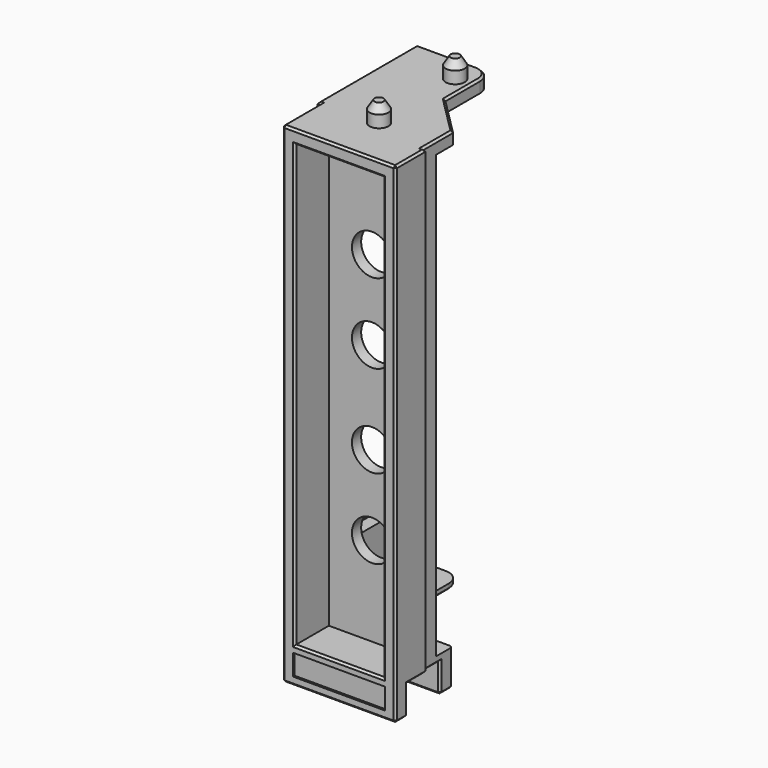
from build123d import *

# Parameters (mm, degrees)
PAD_DEPTH          = 97.8
PAD001_DEPTH       = 2.5
SKETCH002_W        = 22.6
SKETCH002_H        = 4.2
PAD002_DEPTH       = 7.2
PAD003_DEPTH       = 1.2
PAD004_DEPTH       = 2.5
SKETCH005_W        = 10.4
SKETCH005_H        = 8.8
SKETCH005_W_2      = 9.8
POCKET_DEPTH       = 5.8
CHAMFER_SIZE2      = 3
CHAMFER_SIZE       = 0.6
CHAMFER001_SIZE2   = 3
CHAMFER001_SIZE    = 0.6
SKETCH006_R        = 3.9
PAD005_DEPTH       = 4.5
SKETCH007_R        = 1.6
POCKET001_DEPTH    = 5
SKETCH008_R        = 1.9
PAD006_DEPTH       = 4
CHAMFER002_1_SIZE2 = 1
CHAMFER002_1_SIZE  = 1.6
CHAMFER002_2_SIZE2 = 1
CHAMFER002_2_SIZE  = 1.6
SKETCH009_W        = 18.4
SKETCH009_H        = 4.2
POCKET002_DEPTH    = 0.4
SKETCH010_W        = 17.6
SKETCH010_H        = 87.9
POCKET003_DEPTH    = 8.5
CHAMFER003_SIZE    = 0.4
CHAMFER004_SIZE    = 0.4
CHAMFER005_SIZE    = 0.4
SKETCH011_R        = 4
POCKET004_DEPTH    = 5


with BuildPart() as part:
    # Sketch → Pad (new body)
    with BuildSketch(Plane.XY):
        Polygon((-22.6, 0), (-22.6, 9.5), (-23.2, 9.5), (-23.2, 10.8), (-0.6, 10.8), (-0.6, 7.5), (0, 7.5), (0, 0), align=None)
    extrude(amount=PAD_DEPTH)

    # Sketch001 (on Face10 of Pad) → Pad001 (join)
    with BuildSketch(Plane.XY.offset(97.8)):
        with BuildLine():
            Line((-23.2, 10.8), (-23.2, 34.3))
            Line((-23.2, 34.3), (-11.2, 34.3))
            ThreePointArc((-8.2, 31.3), (-9.07868, 33.42132), (-11.2, 34.3))
            Line((-8.2, 31.3), (-8.2, 22.7))
            Line((-8.2, 22.7), (-0.6, 15.1))
            Line((-0.6, 15.1), (-0.6, 10.8))
            Line((-0.6, 10.8), (-23.2, 10.8))
        make_face()
    extrude(amount=-PAD001_DEPTH)

    # Sketch002 (on Face4 of Pad001) → Pad002 (join)
    with BuildSketch(Plane(origin=(0, 0, 0), x_dir=(1, 0, 0), z_dir=(0, 0, -1))):
        with Locations((-11.9, -12.9)):
            Rectangle(SKETCH002_W, SKETCH002_H)
    extrude(amount=-PAD002_DEPTH)

    # Sketch003 (on Face22 of Pad002) → Pad003 (join)
    with BuildSketch(Plane.XY.offset(7.2)):
        with BuildLine():
            Line((-23.2, 15), (-23.2, 34.3))
            Line((-23.2, 34.3), (-17.4, 34.3))
            ThreePointArc((-14.4, 31.3), (-15.27868, 33.42132), (-17.4, 34.3))
            Line((-14.4, 31.3), (-14.4, 20.7))
            Line((-14.4, 20.7), (-8.7, 15))
            Line((-8.7, 15), (-23.2, 15))
        make_face()
    extrude(amount=-PAD003_DEPTH)

    # Sketch004 (on Face7 of Pad003) → Pad004 (join)
    with BuildSketch(Plane(origin=(-23.2, 0, 0), x_dir=(0, -1, 0), z_dir=(-1, 0, 0))):
        with BuildLine():
            Line((-34.3, 7.2), (-34.3, 16.7))
            ThreePointArc((-31.3, 19.7), (-33.42132, 18.82132), (-34.3, 16.7))
            Line((-31.3, 19.7), (-15.4, 19.7))
            ThreePointArc((-15.4, 19.7), (-13.27868, 20.57868), (-12.4, 22.7))
            Line((-12.4, 22.7), (-12.4, 79.8))
            ThreePointArc((-12.4, 79.8), (-13.27868, 81.92132), (-15.4, 82.8))
            Line((-15.4, 82.8), (-31.3, 82.8))
            ThreePointArc((-34.3, 85.8), (-33.42132, 83.67868), (-31.3, 82.8))
            Line((-34.3, 85.8), (-34.3, 95.3))
            Line((-34.3, 95.3), (-10.8, 95.3))
            Line((-10.8, 95.3), (-10.8, 7.2))
            Line((-10.8, 7.2), (-34.3, 7.2))
        make_face()
    extrude(amount=-PAD004_DEPTH)

    # Sketch005 (on Face4 of Pad004) → Pocket (cut)
    with BuildSketch(Plane(origin=(0, 0, 0), x_dir=(1, 0, 0), z_dir=(0, 0, -1))):
        with Locations((-18, -7.4)):
            Rectangle(SKETCH005_W, SKETCH005_H)
        with Locations((-4.9, -7.4)):
            Rectangle(SKETCH005_W_2, SKETCH005_H)
    extrude(amount=-POCKET_DEPTH, mode=Mode.SUBTRACT)

    # Chamfer
    chamfer_edges = [part.edges().sort_by_distance(p)[0] for p in [
        (-9.8, 6.9, 0),
    ]]
    chamfer_side = part.faces().sort_by_distance((-11.3, 2.885526, 0))[0]
    chamfer(chamfer_edges, length=CHAMFER_SIZE, length2=CHAMFER_SIZE2, reference=chamfer_side)

    # Chamfer001
    chamfer001_edges = [part.edges().sort_by_distance(p)[0] for p in [
        (-12.8, 6.9, 0),
    ]]
    chamfer001_side = part.faces().sort_by_distance((-11.36491, 2.668377, 0))[0]
    chamfer(chamfer001_edges, length=CHAMFER001_SIZE, length2=CHAMFER001_SIZE2, reference=chamfer001_side)

    # Sketch006 (on Face25 of Chamfer001) → Pad005 (join)
    with BuildSketch(Plane(origin=(-23.2, 0, 0), x_dir=(0, -1, 0), z_dir=(-1, 0, 0))):
        with Locations((-29.3, 89)):
            Circle(SKETCH006_R)
        with Locations((-29.3, 13)):
            Circle(SKETCH006_R)
    extrude(amount=PAD005_DEPTH)

    # Sketch007 (on Face25 of Pad005) → Pocket001 (cut, symmetric)
    with BuildSketch(Plane(origin=(-23.2, 0, 0), x_dir=(0, -1, 0), z_dir=(-1, 0, 0))):
        with Locations((-29.3, 13)):
            Circle(SKETCH007_R)
        with Locations((-29.3, 89)):
            Circle(SKETCH007_R)
    extrude(amount=POCKET001_DEPTH, both=True, mode=Mode.SUBTRACT)

    # Sketch008 (on Face22 of Pocket001) → Pad006 (join)
    with BuildSketch(Plane.XY.offset(97.8)):
        with Locations((-11.3, 10)):
            Circle(SKETCH008_R)
        with Locations((-11.3, 29)):
            Circle(SKETCH008_R)
    extrude(amount=PAD006_DEPTH)

    # Chamfer002 1
    chamfer002_1_edges = [part.edges().sort_by_distance(p)[0] for p in [
        (-13.2, 29, 101.8),
    ]]
    chamfer002_1_side = part.faces().sort_by_distance((-13.2, 29, 99.8))[0]
    chamfer(chamfer002_1_edges, length=CHAMFER002_1_SIZE, length2=CHAMFER002_1_SIZE2, reference=chamfer002_1_side)

    # Chamfer002 2
    chamfer002_2_edges = [part.edges().sort_by_distance(p)[0] for p in [
        (-13.2, 10, 101.8),
    ]]
    chamfer002_2_side = part.faces().sort_by_distance((-13.2, 10, 99.8))[0]
    chamfer(chamfer002_2_edges, length=CHAMFER002_2_SIZE, length2=CHAMFER002_2_SIZE2, reference=chamfer002_2_side)

    # Sketch009 (on Face12 of Chamfer002) → Pocket002 (cut)
    with BuildSketch(Plane.XZ):
        with Locations((-11.3, 3.7)):
            Rectangle(SKETCH009_W, SKETCH009_H)
    extrude(amount=-POCKET002_DEPTH, mode=Mode.SUBTRACT)

    # Sketch010 (on Face12 of Pocket002) → Pocket003 (cut)
    with BuildSketch(Plane.XZ):
        with Locations((-11.3, 51.15)):
            Rectangle(SKETCH010_W, SKETCH010_H)
    extrude(amount=-POCKET003_DEPTH, mode=Mode.SUBTRACT)

    # Chamfer003
    chamfer003_edges = [part.edges().sort_by_distance(p)[0] for p in [
        (-20.7, 30.9, 13),
        (-20.7, 30.9, 89),
    ]]
    chamfer(chamfer003_edges, length=CHAMFER003_SIZE)

    # Chamfer004
    chamfer004_edges = [part.edges().sort_by_distance(p)[0] for p in [
        (-22.6, 0, 48.9),
        (0, 0, 48.9),
        (-20.1, 0, 51.15),
        (-11.3, 0, 95.1),
        (-2.5, 0, 51.15),
        (-11.3, 0, 7.2),
        (-11.3, 0, 0),
        (0, 1.5, 0),
        (-22.6, 1.5, 0),
        (-17.7, 3, 0),
        (-4.9, 3, 0),
        (-5.2, 11.8, 0),
        (-0.6, 13.4, 0),
        (-0.6, 15, 3.6),
        (-11.9, 15, 0),
        (-18, 11.8, 0),
        (-23.2, 13.4, 0),
        (-23.2, 15, 3),
        (-11.3, 0, 97.8),
        (-22.6, 4.75, 97.8),
        (-22.9, 9.5, 97.8),
        (-23.2, 10.15, 97.8),
        (-23.2, 22.55, 97.8),
        (0, 3.75, 97.8),
        (-0.3, 7.5, 97.8),
        (-0.6, 9.15, 97.8),
        (-0.6, 12.95, 97.8),
        (-4.4, 18.9, 97.8),
        (-8.2, 27, 97.8),
        (0, 3, 2.9),
        (0, 5.25, 5.8),
        (-0.3, 7.5, 5.8),
        (-0.6, 9.15, 5.8),
        (-0.6, 11.3, 5.8),
        (-0.6, 11.8, 2.9),
        (-22.6, 3, 2.9),
        (-22.6, 6.25, 5.8),
        (-22.9, 9.5, 5.8),
        (-23.2, 10.15, 5.8),
        (-23.2, 11.3, 5.8),
        (-23.2, 11.8, 2.9),
    ]]
    chamfer(chamfer004_edges, length=CHAMFER004_SIZE)

    # Chamfer005
    chamfer005_edges = [part.edges().sort_by_distance(p)[0] for p in [
        (-11.55, 17.85, 6),
        (-14.4, 26, 6),
        (-15.27868, 33.42132, 6),
        (-20.3, 34.3, 6),
        (-23.2, 24.65, 6),
    ]]
    chamfer(chamfer005_edges, length=CHAMFER005_SIZE)

    # Sketch011 (on Face22 of Chamfer005) → Pocket004 (cut)
    with BuildSketch(Plane(origin=(0, 10.8, 0), x_dir=(-1, 0, 0), z_dir=(0, 1, 0))):
        with Locations((11.5, 25)):
            Circle(SKETCH011_R)
        with Locations((11.5, 40.9)):
            Circle(SKETCH011_R)
        with Locations((11.5, 59.3)):
            Circle(SKETCH011_R)
        with Locations((11.5, 75.2)):
            Circle(SKETCH011_R)
    extrude(amount=-POCKET004_DEPTH, mode=Mode.SUBTRACT)


solid = part.part
